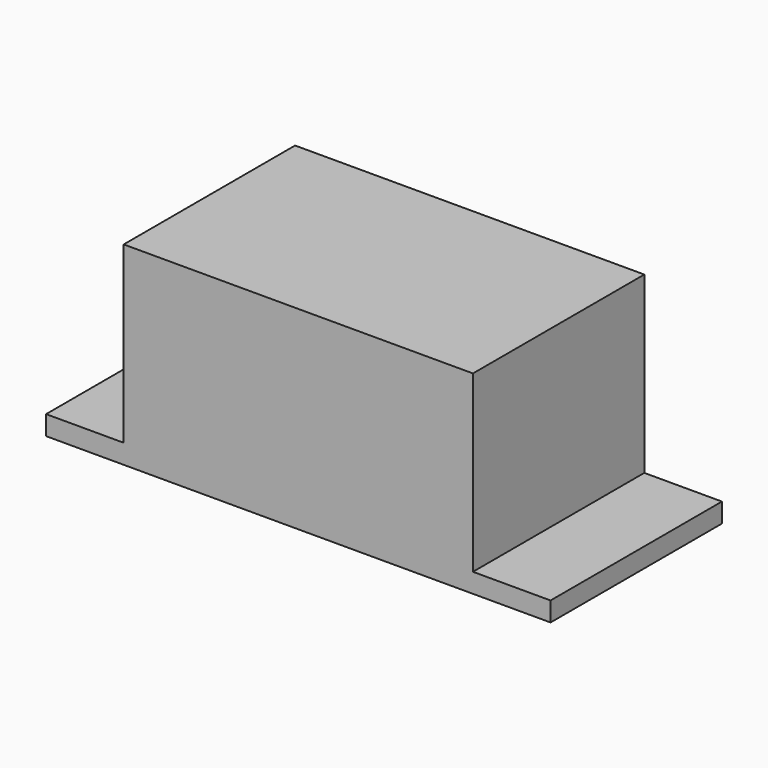
from build123d import *

# Parameters (mm, degrees)
F0_W     = 82.55
F0_H     = 35.052
F1_DEPTH = 3.175
F3_D     = 3.81
F4_W     = 57.15
F4_H     = 35.052
F5_DEPTH = 31.75


with BuildPart() as f1:
    # F0 (on Top) → F1 (new body)
    with BuildSketch(Plane.XY):
        with Locations((1.768986, -20.037849)):
            Rectangle(F0_W, F0_H)
    extrude(amount=F1_DEPTH)

    # F3 (through all)
    with Locations(Plane.XY.offset(3.175)):
        with Locations((-34.443449, -8.69142)):
            Hole(F3_D / 2)

    # F4 (on Top) → F5 (join)
    with BuildSketch(Plane.XY):
        with Locations((1.768986, -20.037849)):
            Rectangle(F4_W, F4_H)
    extrude(amount=F5_DEPTH)


solid = f1.part
